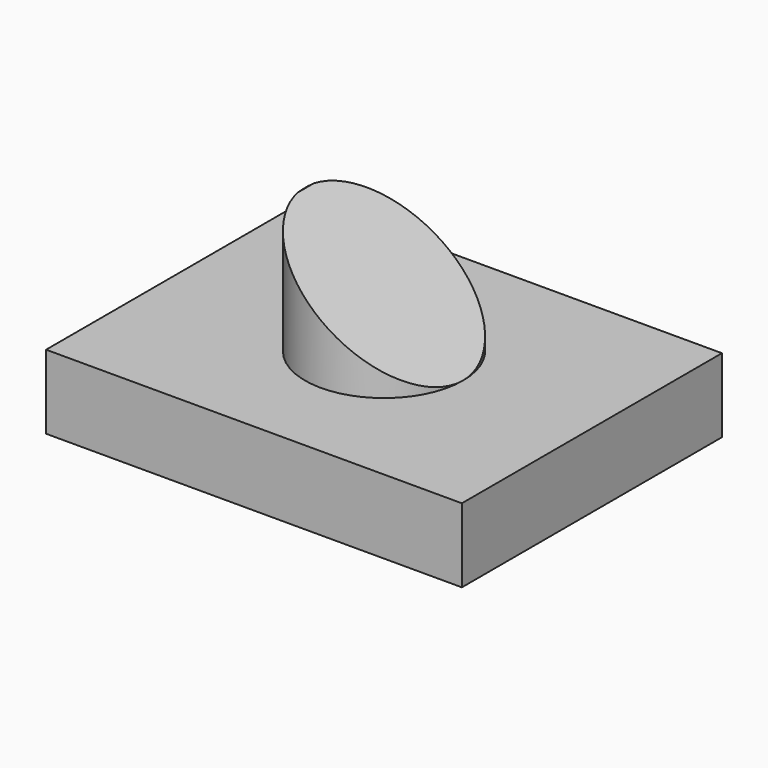
from build123d import *

# Parameters (mm, degrees)
F0_W     = 140.431046
F0_H     = 109.784484
F1_DEPTH = 25
F2_R     = 26.666566
F3_DEPTH = 40
F5_DEPTH = 128


with BuildPart() as f1:
    # F0 (on Top) → F1 (new body)
    with BuildSketch(Plane.XY):
        Rectangle(F0_W, F0_H)
    extrude(amount=-F1_DEPTH)

    # F2 (on face) → F3 (join)
    with BuildSketch(Plane.XY):
        Circle(F2_R)
    extrude(amount=F3_DEPTH)

    # F4 (on face) → F5 (cut)
    with BuildSketch(Plane.XZ.offset(54.892242)):
        Polygon((-26.627764, 40.126272), (26.686043, 0), (26.686043, 40.126272), align=None)
    extrude(amount=-F5_DEPTH, mode=Mode.SUBTRACT)


solid = f1.part
